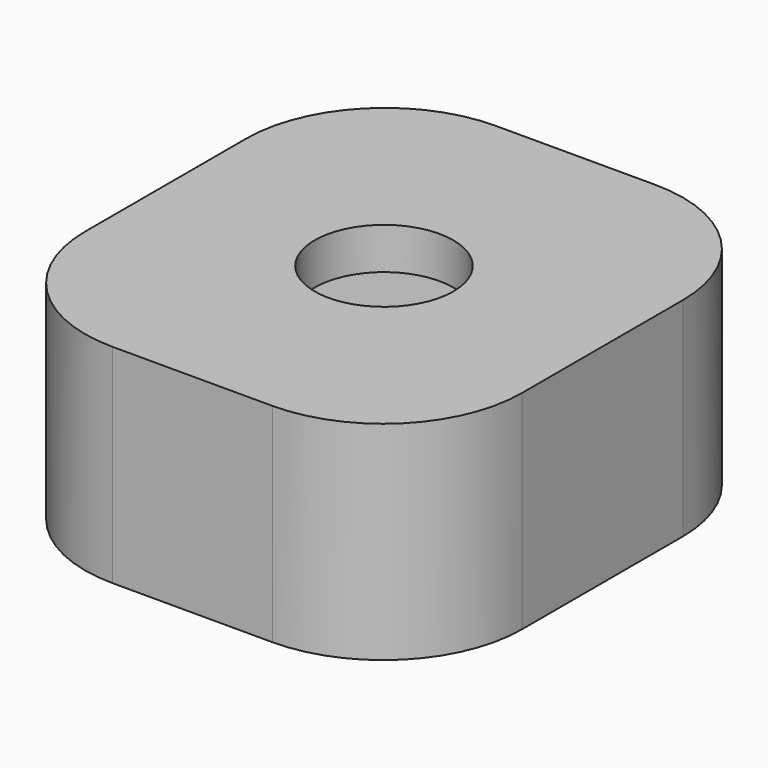
from build123d import *

# Parameters (mm, degrees)
F0_W     = 6.3
F0_H     = 6.903332
F0_R     = 1
F1_DEPTH = 0.6
F2_W     = 6.3
F2_H     = 6.903332
F3_DEPTH = 1.8
F4_W     = 6.3
F4_H     = 6.903332
F4_R     = 1
F5_DEPTH = 0.6
F6_R     = 2


with BuildPart() as f1:
    # F0 (on Top) → F1 (new body)
    with BuildSketch(Plane.XY):
        Rectangle(F0_W, F0_H)
        Circle(F0_R, mode=Mode.SUBTRACT)
    extrude(amount=F1_DEPTH)

    # F2 (on face) → F3 (join)
    with BuildSketch(Plane.XY.offset(0.6)):
        Rectangle(F2_W, F2_H)
        Polygon((-1.95, 1.125833), (0, 2.251666), (1.95, 1.125833), (1.95, -1.125833), (0, -2.251666), (-1.95, -1.125833), align=None, mode=Mode.SUBTRACT)
    extrude(amount=F3_DEPTH)

    # F4 (on face) → F5 (join)
    with BuildSketch(Plane.XY.offset(2.4)):
        Rectangle(F4_W, F4_H)
        Circle(F4_R, mode=Mode.SUBTRACT)
    extrude(amount=F5_DEPTH)

    # F6
    f6_edges = [f1.edges().sort_by_distance(p)[0] for p in [
        (3.15, -3.451666, 1.5),
        (3.15, 3.451666, 1.5),
        (-3.15, 3.451666, 1.5),
        (-3.15, -3.451666, 1.5),
    ]]
    fillet(f6_edges, radius=F6_R)


solid = f1.part
